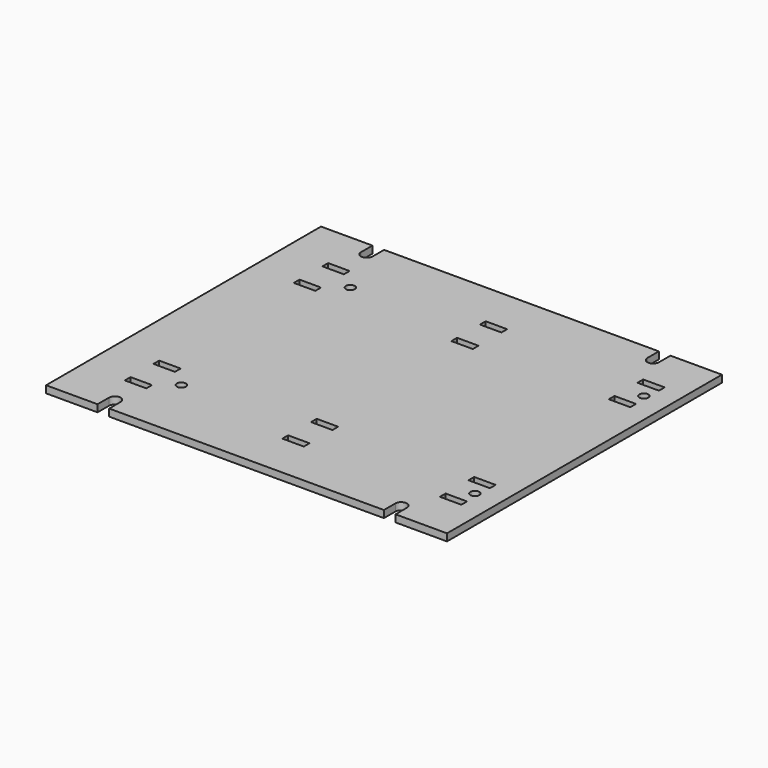
from build123d import *

# Parameters (mm, degrees)
F0_W     = 19.05
F0_H     = 6.35
F0_R     = 3.96875
F1_DEPTH = 6.35


with BuildPart() as f1:
    # F0 (on Top) → F1 (new body)
    with BuildSketch(Plane.XY):
        with BuildLine():
            Line((0, 309.391197), (0, 4.591197))
            Line((0, 4.591197), (45.640625, 4.591197))
            Line((45.640625, 4.591197), (45.640625, 17.291197))
            ThreePointArc((45.640625, 17.291197), (50.8, 22.450572), (55.959375, 17.291197))
            Line((55.959375, 17.291197), (55.959375, 4.591197))
            Line((55.959375, 4.591197), (299.640625, 4.591197))
            Line((299.640625, 4.591197), (299.640625, 17.291197))
            ThreePointArc((299.640625, 17.291197), (304.8, 22.450572), (309.959375, 17.291197))
            Line((309.959375, 17.291197), (309.959375, 4.591197))
            Line((309.959375, 4.591197), (355.6, 4.591197))
            Line((355.6, 4.591197), (355.6, 309.391197))
            Line((355.6, 309.391197), (309.959375, 309.391197))
            Line((309.959375, 309.391197), (309.959375, 296.691197))
            ThreePointArc((309.959375, 296.691197), (304.8, 291.531822), (299.640625, 296.691197))
            Line((299.640625, 296.691197), (299.640625, 309.391197))
            Line((299.640625, 309.391197), (55.959375, 309.391197))
            Line((55.959375, 309.391197), (55.959375, 296.691197))
            ThreePointArc((55.959375, 296.691197), (50.8, 291.531822), (45.640625, 296.691197))
            Line((45.640625, 296.691197), (45.640625, 309.391197))
            Line((45.640625, 309.391197), (0, 309.391197))
        make_face()
        with Locations((47.625, 47.453697)):
            Rectangle(F0_W, F0_H, mode=Mode.SUBTRACT)
        with Locations((47.625, 79.203697)):
            Rectangle(F0_W, F0_H, mode=Mode.SUBTRACT)
        with Locations((73.025, 63.328697)):
            Circle(F0_R, mode=Mode.SUBTRACT)
        with Locations((187.325, 47.453697)):
            Rectangle(F0_W, F0_H, mode=Mode.SUBTRACT)
        with Locations((187.325, 79.203697)):
            Rectangle(F0_W, F0_H, mode=Mode.SUBTRACT)
        with Locations((327.025, 47.453697)):
            Rectangle(F0_W, F0_H, mode=Mode.SUBTRACT)
        with Locations((327.025, 79.203697)):
            Rectangle(F0_W, F0_H, mode=Mode.SUBTRACT)
        with Locations((333.375, 63.328697)):
            Circle(F0_R, mode=Mode.SUBTRACT)
        with Locations((47.625, 234.778697)):
            Rectangle(F0_W, F0_H, mode=Mode.SUBTRACT)
        with Locations((73.025, 250.653697)):
            Circle(F0_R, mode=Mode.SUBTRACT)
        with Locations((47.625, 266.528697)):
            Rectangle(F0_W, F0_H, mode=Mode.SUBTRACT)
        with Locations((187.325, 234.778697)):
            Rectangle(F0_W, F0_H, mode=Mode.SUBTRACT)
        with Locations((187.325, 266.528697)):
            Rectangle(F0_W, F0_H, mode=Mode.SUBTRACT)
        with Locations((327.025, 234.778697)):
            Rectangle(F0_W, F0_H, mode=Mode.SUBTRACT)
        with Locations((333.375, 250.653697)):
            Circle(F0_R, mode=Mode.SUBTRACT)
        with Locations((327.025, 266.528697)):
            Rectangle(F0_W, F0_H, mode=Mode.SUBTRACT)
    extrude(amount=F1_DEPTH)


solid = f1.part
